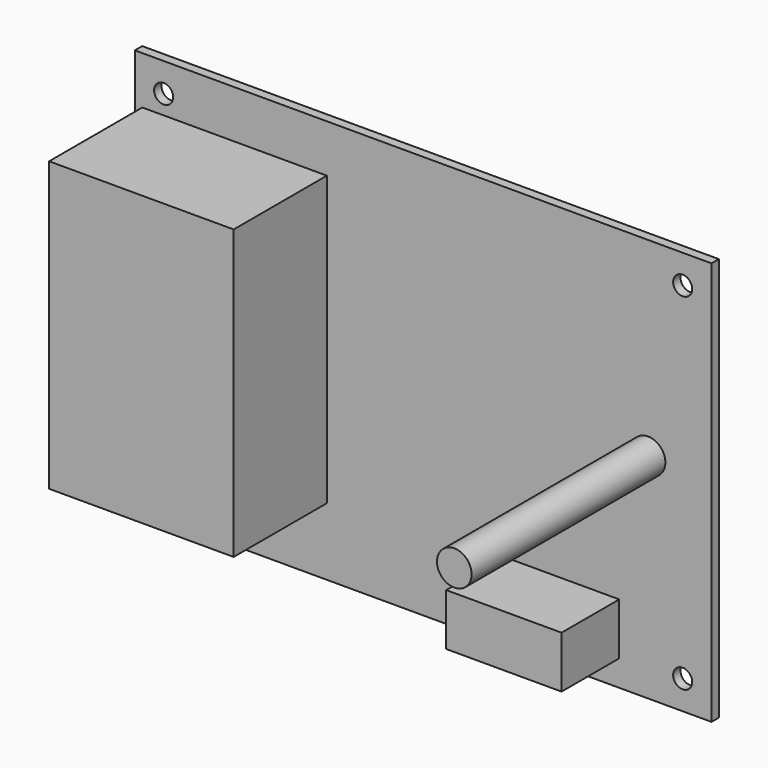
from build123d import *

# Parameters (mm, degrees)
F0_W     = 100
F0_H     = 70
F0_R     = 1.65
F0_W_2   = 20
F0_H_2   = 9
F0_W_3   = 32
F0_H_3   = 50
F0_R_2   = 3
F1_DEPTH = 1.6
F2_DEPTH = 20.2
F3_DEPTH = 12.5
F4_DEPTH = 42


with BuildPart() as f1:
    # F0 (on Front) → F1 (new body)
    with BuildSketch(Plane.XZ):
        Rectangle(F0_W, F0_H)
        with Locations((-45, -30)):
            Circle(F0_R, mode=Mode.SUBTRACT)
        with Locations((24, -26)):
            Rectangle(F0_W_2, F0_H_2, mode=Mode.SUBTRACT)
        with Locations((45, -30)):
            Circle(F0_R, mode=Mode.SUBTRACT)
        with Locations((-32.7, 1.7)):
            Rectangle(F0_W_3, F0_H_3, mode=Mode.SUBTRACT)
        with Locations((-45, 30)):
            Circle(F0_R, mode=Mode.SUBTRACT)
        with Locations((39, 2)):
            Circle(F0_R_2, mode=Mode.SUBTRACT)
        with Locations((45, 30)):
            Circle(F0_R, mode=Mode.SUBTRACT)
        with Locations((-32.7, 1.7)):
            Rectangle(F0_W_3, F0_H_3)
        with Locations((24, -26)):
            Rectangle(F0_W_2, F0_H_2)
        with Locations((39, 2)):
            Circle(F0_R_2)
    extrude(amount=-F1_DEPTH)

    # F0 (on Front) → F2 (join)
    with BuildSketch(Plane.XZ):
        with Locations((-32.7, 1.7)):
            Rectangle(F0_W_3, F0_H_3)
    extrude(amount=F2_DEPTH)

    # F0 (on Front) → F3 (join)
    with BuildSketch(Plane.XZ):
        with Locations((24, -26)):
            Rectangle(F0_W_2, F0_H_2)
    extrude(amount=F3_DEPTH)

    # F0 (on Front) → F4 (join)
    with BuildSketch(Plane.XZ):
        with Locations((39, 2)):
            Circle(F0_R_2)
    extrude(amount=F4_DEPTH)


solid = f1.part
